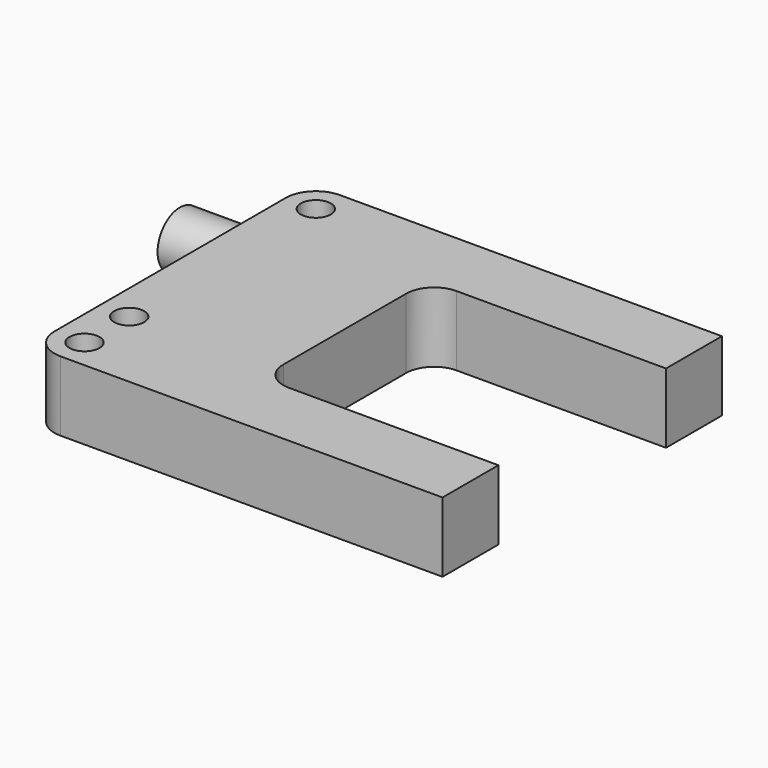
from build123d import *

# Parameters (mm, degrees)
F1_DEPTH = 10
F2_R     = 4
F3_R     = 4.3
F5_D     = 4.3
F6_R     = 4
F7_DEPTH = 9


with BuildPart() as f1:
    # F0 (on Top) → F1 (new body)
    with BuildSketch(Plane.XY):
        Polygon((42.874504, 24.587632), (-16.125496, 24.587632), (-16.125496, -25.412368), (42.874504, -25.412368), (42.874504, -15.412368), (8.874504, -15.412368), (8.874504, 14.587632), (42.874504, 14.587632), align=None)
    extrude(amount=F1_DEPTH)

    # F2
    f2_edges = [f1.edges().sort_by_distance(p)[0] for p in [
        (8.874504, 14.587632, 5),
        (8.874504, -15.412368, 5),
    ]]
    fillet(f2_edges, radius=F2_R)

    # F3
    f3_edges = [f1.edges().sort_by_distance(p)[0] for p in [
        (-16.125496, 24.587632, 5),
        (-16.125496, -25.412368, 5),
    ]]
    fillet(f3_edges, radius=F3_R)

    # F5 (through all)
    with Locations(Plane.XY.offset(10)):
        with Locations((-11.825496, 20.287632), (-11.825496, -13.112368), (-11.825496, -21.112368)):
            Hole(F5_D / 2)

    # F6 (on face) → F7 (join)
    with BuildSketch(Plane(origin=(-16.125496, 0, 0), x_dir=(0, -1, 0), z_dir=(-1, 0, 0))):
        with Locations((-12.587632, 5)):
            Circle(F6_R)
    extrude(amount=F7_DEPTH)


solid = f1.part
